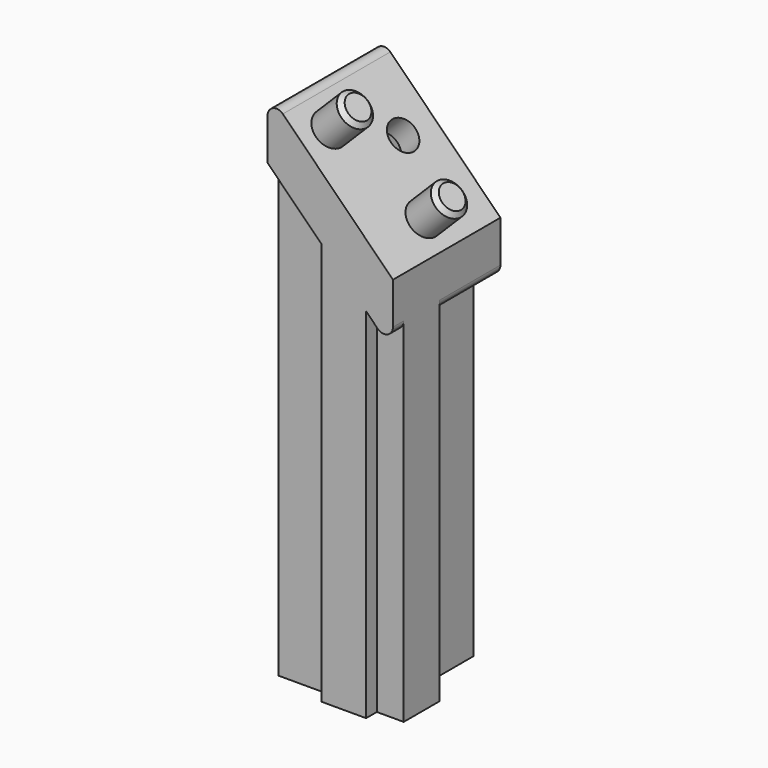
from build123d import *

# Parameters (mm, degrees)
PAD001_DEPTH         = 25
PAD001_DEPTH_BACK    = 26
POCKET004_DEPTH      = 7.501
POCKET004_DEPTH_BACK = 7.501
PAD002_DEPTH         = 15
POCKET005_DEPTH      = 2.15
SKETCH011_R          = 1.7
HOLE001_DEPTH        = 12.7504949366
SKETCH012_R          = 1.9
PAD003_DEPTH         = 4.5
CHAMFER_SIZE         = 0.5
FILLET001_R          = 1


with BuildPart() as part:
    # Sketch007 → Pad001 (new body, two sides)
    with BuildSketch(Plane.XY) as pad001_sk:
        Polygon((-7, -6), (-1, -6), (-1, -7.5), (4, -7.5), (4, -6), (7, -6), (7, -1), (4, -1), (4, 7.5), (-1, 7.5), (-1, -1), (-7, -1), align=None)
    extrude(amount=PAD001_DEPTH)
    extrude(pad001_sk.sketch, amount=-PAD001_DEPTH_BACK)

    # Sketch008 → Pocket004 (cut, two sides)
    with BuildSketch(Plane.XZ) as pocket004_sk:
        Polygon((-7, 25), (7, 11), (7, 25), align=None)
    extrude(amount=-POCKET004_DEPTH, mode=Mode.SUBTRACT)
    extrude(pocket004_sk.sketch, amount=POCKET004_DEPTH_BACK, mode=Mode.SUBTRACT)

    # Sketch009 (on Face8 of Pocket004) → Pad002 (join)
    with BuildSketch(Plane.XZ.offset(7.5)):
        Polygon((-7, 25), (7, 11), (7, 18.0710678119), (-7, 32.0710678119), align=None)
    extrude(amount=-PAD002_DEPTH)

    # Sketch010 (on Face12 of Pad002) → Pocket005 (cut)
    with BuildSketch(Plane(origin=(9, 0, 9), x_dir=(0.7071067812, 0, -0.7071067812), z_dir=(-0.7071067812, 0, -0.7071067812))):
        Polygon((-21.5619467058, -2.3333103769), (-20.6952570827, -5.5678400847), (-17.4607273749, -6.4345297078), (-15.0928872902, -4.0666896231), (-15.9595769133, -0.8321599153), (-19.1941066211, 0.0345297078), align=None)
    extrude(amount=-POCKET005_DEPTH, mode=Mode.SUBTRACT)

    # Sketch011 (on Face29 of Pocket005) → Hole001 (cut, through all)
    with BuildSketch(Plane(origin=(10.5202795796, 0, 10.5202795796), x_dir=(0, -1, 0), z_dir=(-0.7071067812, 0, -0.7071067812))):
        with Locations((-3.2, 18.327416998)):
            Circle(SKETCH011_R)
    extrude(amount=-HOLE001_DEPTH, mode=Mode.SUBTRACT)

    # Sketch012 (on Face9 of Hole001) → Pad003 (join)
    with BuildSketch(Plane(origin=(12.5355339059, 0, 12.5355339059), x_dir=(0.7071067812, 0, -0.7071067812), z_dir=(0.7071067812, 0, 0.7071067812))):
        with Locations((-22.027416998, -3.8)):
            Circle(SKETCH012_R)
        with Locations((-11.127416998, -0.3)):
            Circle(SKETCH012_R)
    extrude(amount=PAD003_DEPTH)

    # Chamfer
    chamfer_edges = [part.edges().sort_by_distance(p)[0] for p in [
        (-1.201724, -3.8, 32.636753),
        (6.50574, -0.3, 24.929289),
    ]]
    chamfer(chamfer_edges, length=CHAMFER_SIZE)

    # Fillet001
    fillet001_edges = [part.edges().sort_by_distance(p)[0] for p in [
        (-7, 0, 32.071068),
        (7, 3.25, 11),
        (7, -6.75, 11),
    ]]
    fillet(fillet001_edges, radius=FILLET001_R)


with BuildPart() as part_1:
    # Body001 placement: moved
    add(part.part.moved(Location((0, 0, 33))))


solid = part_1.part
